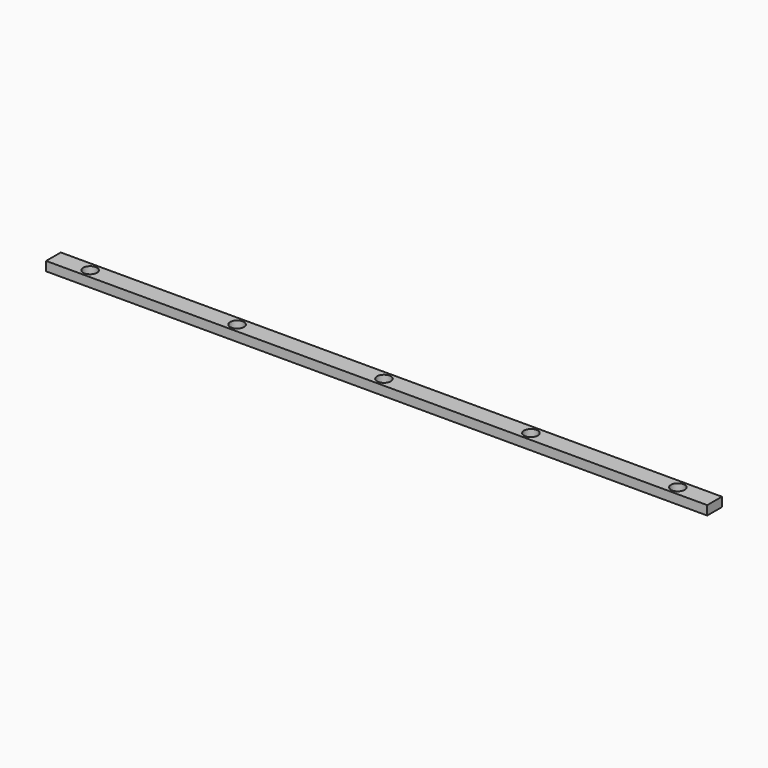
from build123d import *

# Parameters (mm, degrees)
F0_W     = 914.4
F0_H     = 25.4
F0_R     = 9.525
F1_DEPTH = 12.7


with BuildPart() as f1:
    # F0 (on Top) → F1 (new body)
    with BuildSketch(Plane.XY):
        with Locations((314.551775, 14.694642)):
            Rectangle(F0_W, F0_H)
        with Locations((-91.848225, 14.694642)):
            Circle(F0_R, mode=Mode.SUBTRACT)
        with Locations((111.351775, 14.694642)):
            Circle(F0_R, mode=Mode.SUBTRACT)
        with Locations((314.551775, 14.694642)):
            Circle(F0_R, mode=Mode.SUBTRACT)
        with Locations((517.751775, 14.694642)):
            Circle(F0_R, mode=Mode.SUBTRACT)
        with Locations((720.951775, 14.694642)):
            Circle(F0_R, mode=Mode.SUBTRACT)
    extrude(amount=F1_DEPTH)


solid = f1.part
